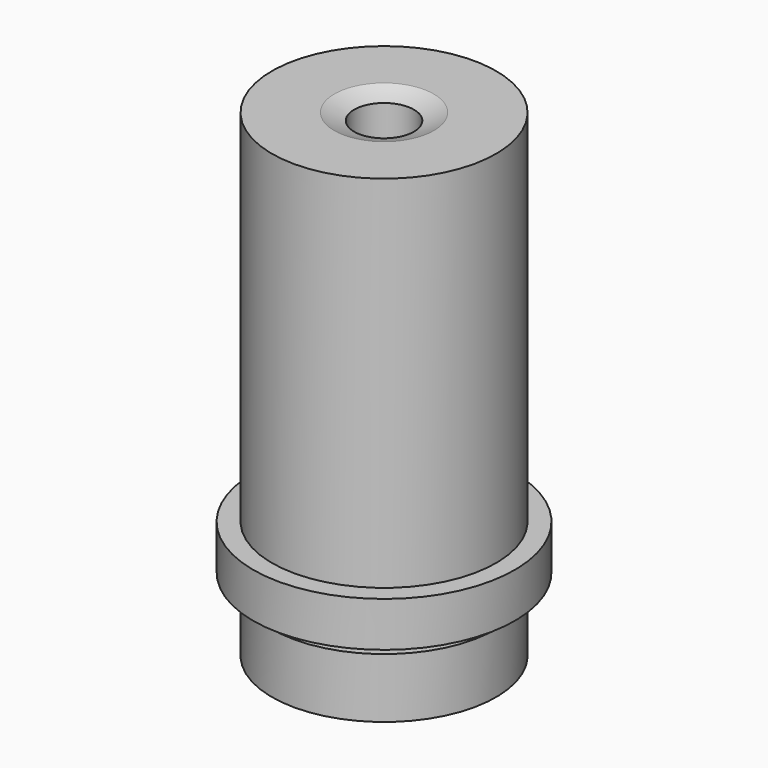
from build123d import *

# Parameters (mm, degrees)
F2_R     = 4
F3_DEPTH = 70


with BuildPart() as f1:
    # F0 (on Right) → F1 (revolve)
    with BuildSketch(Plane.YZ):
        with BuildLine():
            Line((-10, 0), (0, 0))
            Line((0, 0), (0, 63.5))
            ThreePointArc((0, 63.5), (-3.409545, 63.879649), (-6.652067, 65))
            Line((-6.652067, 65), (-15, 65))
            Line((-15, 65), (-15, 16.8))
            Line((-15, 16.8), (-17.5, 16.8))
            Line((-17.5, 16.8), (-17.5, 10.8))
            Line((-17.5, 10.8), (-13, 10.8))
            Line((-13, 10.8), (-13, 9))
            Line((-13, 9), (-15, 9))
            Line((-15, 9), (-15, 1))
            Line((-15, 1), (-10, 1))
            Line((-10, 1), (-10, 0))
        make_face()
    revolve(axis=Axis((0, 0, 22.3796), (0, 0, -1)))

    # F2 (on Top) → F3 (cut)
    with BuildSketch(Plane.XY):
        Circle(F2_R)
    extrude(amount=F3_DEPTH, mode=Mode.SUBTRACT)


solid = f1.part
